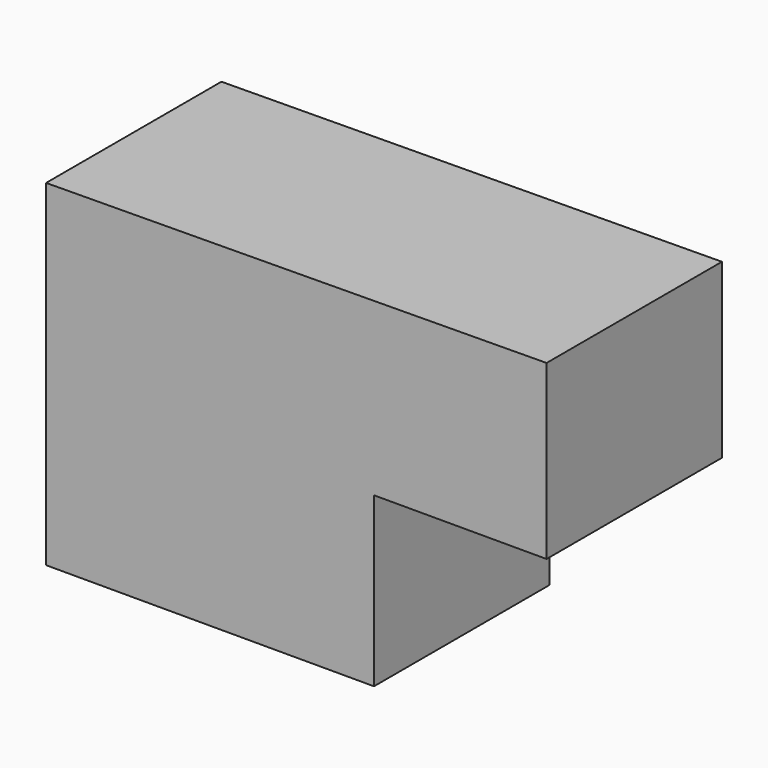
from build123d import *

# Parameters (mm, degrees)
F1_DEPTH = 25.4
F2_W     = 19.62
F2_H     = 19.62
F3_DEPTH = 25
F4_DEPTH = 25


with BuildPart() as f1:
    # F0 (on Front) → F1 (new body)
    with BuildSketch(Plane.XZ):
        Polygon((36.31416, 28.91813), (-21.683757, 28.426622), (-21.683757, -10.573378), (16.316243, -10.573378), (16.316243, 8.91813), (36.31416, 8.91813), align=None)
    extrude(amount=F1_DEPTH)

    # F2 (on Front) → F3 (join)
    with BuildSketch(Plane.XZ):
        with Locations((-11.983198, -0.2484)):
            Rectangle(F2_W, F2_H)
    extrude(amount=-F3_DEPTH)

    # F2 (on Front) → F4 (join)
    with BuildSketch(Plane.XZ):
        with Locations((-11.983198, -0.2484)):
            Rectangle(F2_W, F2_H)
    extrude(amount=F4_DEPTH)


solid = f1.part
